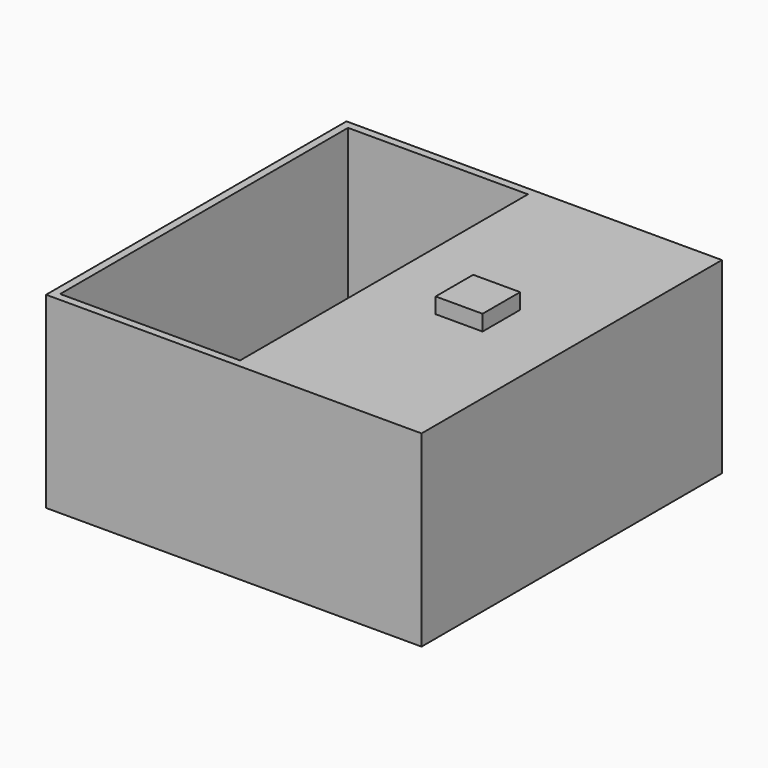
from build123d import *

# Parameters (mm, degrees)
F0_W     = 304.8
F0_H     = 152.4
F1_DEPTH = 152.4
F2_W     = 292.1
F2_H     = 292.1
F3_DEPTH = 139.7
F5_DEPTH = 12.7
F4_W     = 38.1
F4_H     = 19.05
F6_DEPTH = 12.7


with BuildPart() as f1:
    # F0 (on Front) → F1 (new body, symmetric)
    with BuildSketch(Plane.XZ):
        with Locations((3.97213, -16.929825)):
            Rectangle(F0_W, F0_H)
    extrude(amount=F1_DEPTH, both=True)

    # F2 (on face) → F3 (cut)
    with BuildSketch(Plane(origin=(0, 0, -93.129825), x_dir=(1, 0, 0), z_dir=(0, 0, -1))):
        with Locations((3.97213, 0)):
            Rectangle(F2_W, F2_H)
    extrude(amount=-F3_DEPTH, mode=Mode.SUBTRACT)

    # F4 (on face) → F5 (cut)
    with BuildSketch(Plane.XY.offset(59.270175)):
        Polygon((3.97213, 0), (3.97213, 146.05), (-142.07787, 146.05), (-142.07787, -146.05), (3.97213, -146.05), align=None)
    extrude(amount=-F5_DEPTH, mode=Mode.SUBTRACT)

    # F4 (on face) → F6 (join)
    with BuildSketch(Plane.XY.offset(59.270175)):
        with Locations((80.17213, 9.525)):
            Rectangle(F4_W, F4_H)
        with Locations((80.17213, -9.525)):
            Rectangle(F4_W, F4_H)
    extrude(amount=F6_DEPTH)


solid = f1.part
